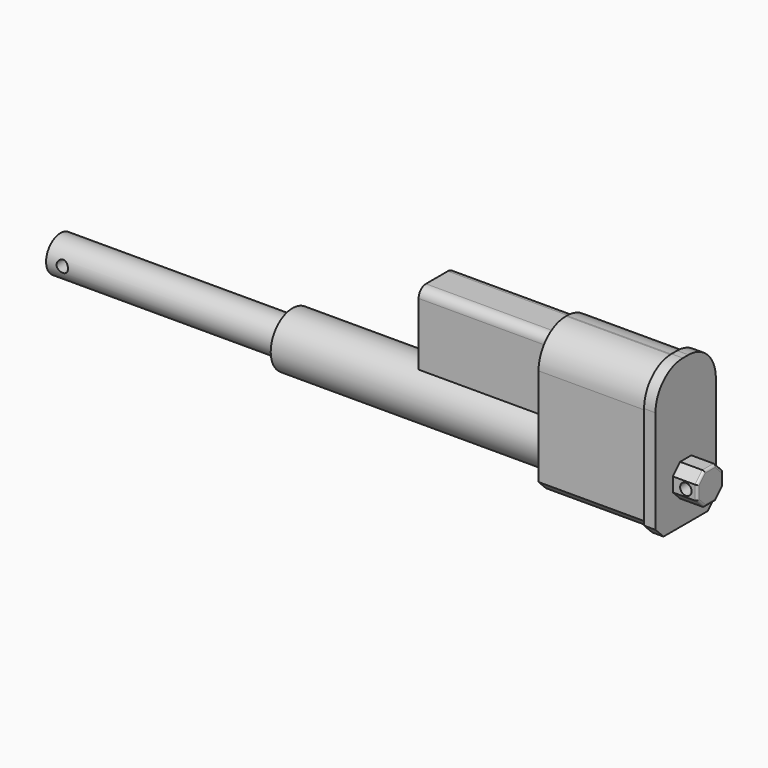
from build123d import *

# Parameters (mm, degrees)
F0_W      = 17.9832
F0_H      = 17.9832
F1_DEPTH  = 19.9898
F2_DEPTH  = 6.35
F3_SIZE   = 5.08
F4_R      = 3.175
F5_DEPTH  = 29.9857
F6_R      = 1.27
F8_DEPTH  = 59.9948
F9_SIZE   = 5.08
F10_SIZE  = 5.588
F12_DEPTH = 71.9836
F13_R     = 15.24
F14_DEPTH = 152.4
F15_R     = 9.9949
F16_DEPTH = 129.21676
F17_R     = 3.175
F18_DEPTH = 1.6290669181
F19_R     = 3.175
F20_DEPTH = 30.9351041637
F21_DEPTH = 11.0530958363


with BuildPart() as f1:
    # F0 (on Right) → F1 (new body)
    with BuildSketch(Plane.YZ):
        with Locations((-9.9410041637, -8.5254687518)):
            Rectangle(F0_W, F0_H)
    extrude(amount=F1_DEPTH)

    # F0 (on Right) → F2 (join)
    with BuildSketch(Plane.YZ):
        with BuildLine():
            Line((-7.9979041637, 50.4914312482), (-11.8841041637, 50.4914312482))
            ThreePointArc((-11.8841041637, 50.4914312482), (-25.3544883453, 44.9118154298), (-30.9341041637, 31.4414312482))
            Line((-30.9341041637, 31.4414312482), (-30.9341041637, -31.4997687518))
            Line((-30.9341041637, -31.4997687518), (11.0520958363, -31.4997687518))
            Line((11.0520958363, -31.4997687518), (11.0520958363, 31.4414312482))
            ThreePointArc((11.0520958363, 31.4414312482), (5.4746705554, 44.9096245359), (-7.9917078841, 50.4914302405))
            ThreePointArc((-7.9917078841, 50.4914302405), (-7.9948060239, 50.4914309962), (-7.9979041637, 50.4914312482))
        make_face()
        with Locations((-9.9410041637, -8.5254687518)):
            Rectangle(F0_W, F0_H, mode=Mode.SUBTRACT)
    extrude(amount=F2_DEPTH)

    # F3
    f3_edges = [f1.edges().sort_by_distance(p)[0] for p in [
        (13.1699, -18.932604, 0.466131),
        (13.1699, -18.932604, -17.517069),
        (13.1699, -0.949404, -17.517069),
        (13.1699, -0.949404, 0.466131),
    ]]
    chamfer(f3_edges, length=F3_SIZE)

    # F4 (on face) → F5 (cut, through all)
    with BuildSketch(Plane(origin=(0, -0.9494041637, 0), x_dir=(-1, 0, 0), z_dir=(0, 1, 0))):
        with Locations((-13.6398, -8.5254687518)):
            Circle(F4_R)
    extrude(amount=-F5_DEPTH, mode=Mode.SUBTRACT)

    # F6
    f6_edges = [f1.edges().sort_by_distance(p)[0] for p in [
        (19.9898, -9.941004, 0.466131),
        (19.9898, -3.489404, -2.073869),
        (19.9898, -16.392604, -2.073869),
        (19.9898, -0.949404, -8.525469),
        (19.9898, -18.932604, -8.525469),
        (19.9898, -3.489404, -14.977069),
        (19.9898, -16.392604, -14.977069),
        (19.9898, -9.941004, -17.517069),
    ]]
    fillet(f6_edges, radius=F6_R)

    # F7 (on face) → F8 (join)
    with BuildSketch(Plane(origin=(0, 0, 0), x_dir=(0, -1, 0), z_dir=(-1, 0, 0))):
        with BuildLine():
            Line((-9.4240289181, 29.7804048777), (-9.4240289181, -29.7799296677))
            Line((-9.4240289181, -29.7799296677), (29.3683167547, -29.7799296677))
            Line((29.3683167547, -29.7799296677), (29.3683167547, 29.7804048777))
            ThreePointArc((29.3683167547, 29.7804048777), (23.7887009363, 43.2507890593), (10.3183167547, 48.8304048777))
            Line((10.3183167547, 48.8304048777), (9.6259710819, 48.8304048777))
            ThreePointArc((9.6259710819, 48.8304048777), (-3.8444130998, 43.2507890593), (-9.4240289181, 29.7804048777))
        make_face()
    extrude(amount=F8_DEPTH)

    # F9
    f9_edges = [f1.edges().sort_by_distance(p)[0] for p in [
        (-29.9974, 9.424029, -29.77993),
        (-29.9974, -29.368317, -29.77993),
    ]]
    chamfer(f9_edges, length=F9_SIZE)

    # F10
    f10_edges = [f1.edges().sort_by_distance(p)[0] for p in [
        (3.175, -30.934104, -31.499769),
        (3.175, 11.052096, -31.499769),
    ]]
    chamfer(f10_edges, length=F10_SIZE)

    # F11 (on face) → F12 (join)
    with BuildSketch(Plane(origin=(-59.9948, 0, 0), x_dir=(0, -1, 0), z_dir=(-1, 0, 0))):
        with BuildLine():
            Line((-2.5647453316, 39.2013556009), (-2.5647453316, 4.3017556009))
            Line((-2.5647453316, 4.3017556009), (22.8352546684, 4.3017556009))
            Line((22.8352546684, 4.3017556009), (22.8352546684, 39.2013556009))
            ThreePointArc((22.8352546684, 39.2013556009), (21.3473571168, 42.7934580493), (17.7552546684, 44.2813556009))
            Line((17.7552546684, 44.2813556009), (2.5152546684, 44.2813556009))
            ThreePointArc((2.5152546684, 44.2813556009), (-1.07684778, 42.7934580493), (-2.5647453316, 39.2013556009))
        make_face()
    extrude(amount=F12_DEPTH)

    # F13 (on face) → F14 (join)
    with BuildSketch(Plane(origin=(-59.9948, 0, 0), x_dir=(0, -1, 0), z_dir=(-1, 0, 0))):
        with Locations((9.9754167547, -12.1569959447)):
            Circle(F13_R)
    extrude(amount=F14_DEPTH)

    # F17 (on face) → F18 (cut, through all)
    with BuildSketch(Plane(origin=(0, 9.4240289181, 0), x_dir=(-1, 0, 0), z_dir=(0, 1, 0))):
        with Locations((329.44496, -11.3471774384)):
            Circle(F17_R)
    extrude(amount=F18_DEPTH, mode=Mode.SUBTRACT)


with BuildPart() as f16:
    # F15 (on face) → F16 (new body)
    with BuildSketch(Plane(origin=(-212.3948, 0, 0), x_dir=(0, -1, 0), z_dir=(-1, 0, 0))):
        with Locations((9.9754167547, -12.1569959447)):
            Circle(F15_R)
    extrude(amount=F16_DEPTH)

    # F19 (on Front) → F20 (cut, through all)
    with BuildSketch(Plane.XZ):
        with Locations((-332.61996, -11.6927502677)):
            Circle(F19_R)
    extrude(amount=F20_DEPTH, mode=Mode.SUBTRACT)

    # F19 (on Front) → F21 (cut, through all)
    with BuildSketch(Plane.XZ):
        with Locations((-332.61996, -11.6927502677)):
            Circle(F19_R)
    extrude(amount=-F21_DEPTH, mode=Mode.SUBTRACT)


solid = Compound([f1.part, f16.part])
